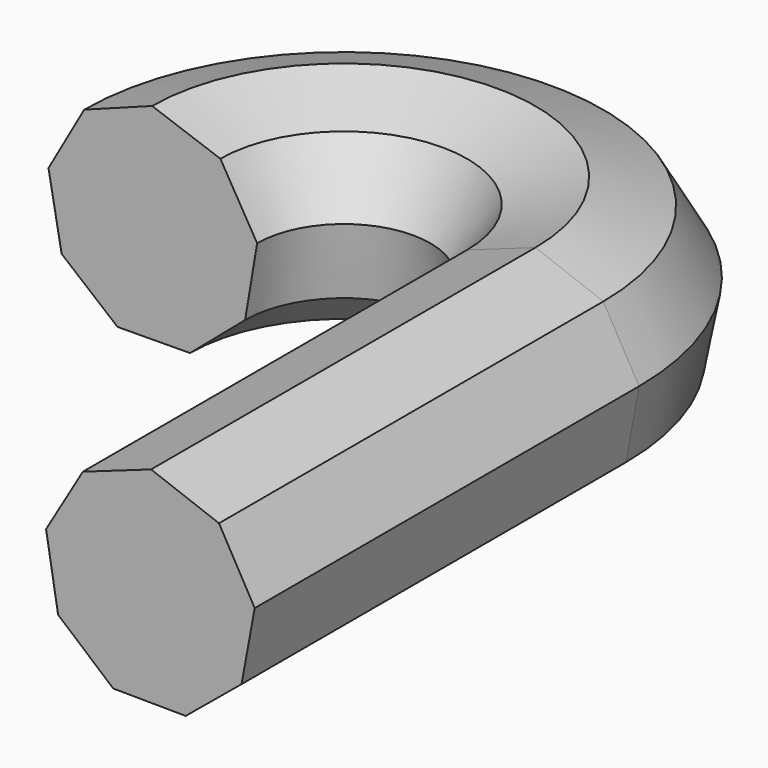
from build123d import *


with BuildPart() as f2:
    # F2: sweep along a path in F1
    with BuildLine(Plane.XY) as f2_path:
        Line((0, 0), (0, 50.8))
        ThreePointArc((0, 50.8), (-20.17757, 70.97757), (-40.35514, 50.8))
    # F0 (on Front) → F2 (sweep)
    with BuildSketch(Plane.XZ):
        Polygon((11.046861, 1.856294), (7.269184, 8.522789), (0.090175, 11.201377), (-7.131028, 8.638716), (-11.015544, 2.033904), (-9.745764, -5.522594), (-3.915833, -10.495009), (3.74636, -10.556693), (9.655589, -5.678782), align=None)
    sweep(path=f2_path.line)


solid = f2.part
